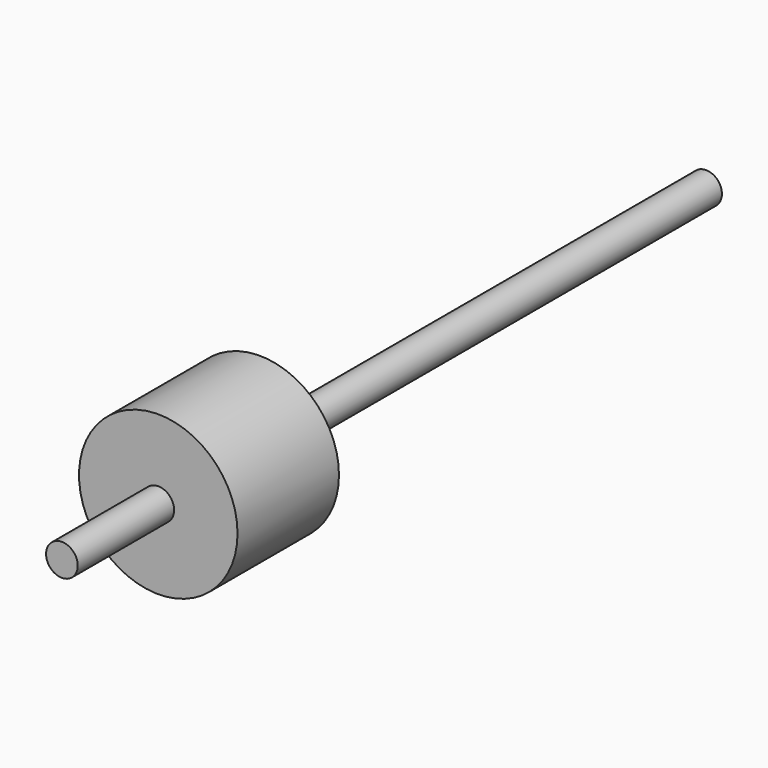
from build123d import *

# Parameters (mm, degrees)
F0_R     = 2.5
F1_DEPTH = 39
F0_R_2   = 12.5
F2_DEPTH = 20
F3_DEPTH = 88


with BuildPart() as f1:
    # F0 (on Front) → F1 (new body)
    with BuildSketch(Plane.XZ):
        Circle(F0_R)
    extrude(amount=F1_DEPTH)

    # F0 (on Front) → F2 (join)
    with BuildSketch(Plane.XZ):
        Circle(F0_R_2)
        Circle(F0_R, mode=Mode.SUBTRACT)
    extrude(amount=F2_DEPTH)

    # F0 (on Front) → F3 (join)
    with BuildSketch(Plane.XZ):
        Circle(F0_R)
    extrude(amount=-F3_DEPTH)


solid = f1.part
